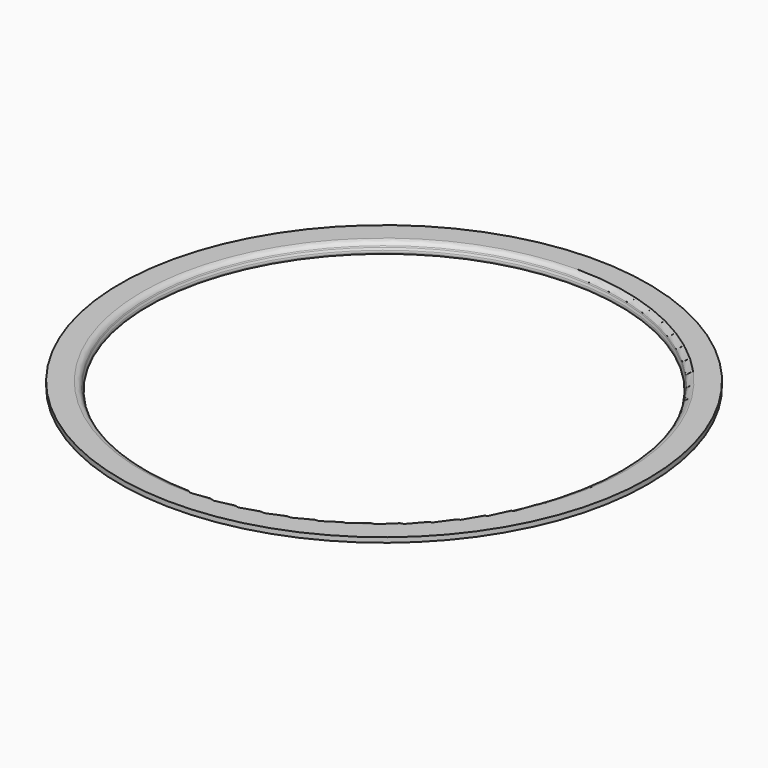
from build123d import *


with BuildPart() as f2:
    # F2: sweep along a path in F1
    with BuildLine(Plane.XY) as f2_path:
        CenterArc((431.5, 0), 412.5, 0, 360)
    # F0 (on Front) → F2 (sweep)
    with BuildSketch(Plane.XZ):
        with BuildLine():
            Line((0, 8), (0, 0))
            Line((0, 0), (38, 0))
            Line((38, 0), (42.4131194186, -10.4150611426))
            Line((42.4131194186, -10.4150611426), (42.8641578953, -10.4150611426))
            ThreePointArc((42.8641578953, -10.4150611426), (47.0327096225, -8.1760711929), (47.467923181, -3.4643317419))
            Line((47.467923181, -3.4643317419), (46, 0))
            Line((46, 0), (45.194304801, 1.9014588014))
            ThreePointArc((45.194304801, 1.9014588014), (41.5087943304, 6.3371034543), (35.9867742297, 8))
            Line((35.9867742297, 8), (0, 8))
        make_face()
    sweep(path=f2_path.line)


solid = f2.part
